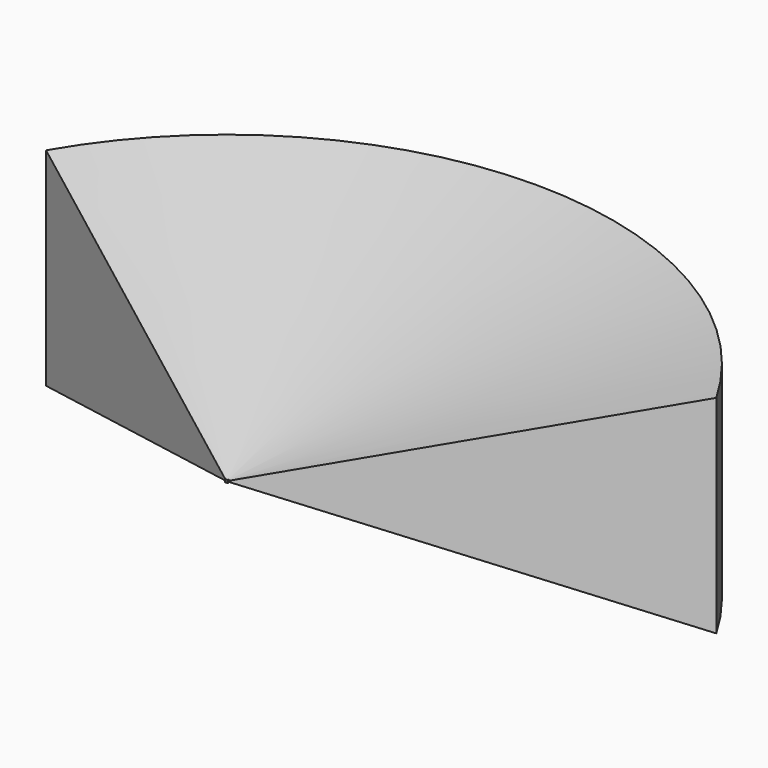
from build123d import *

# Parameters (mm, degrees)
F1_ANGLE_BACK = 60
F1_ANGLE      = 120
F2_W          = 20.6853728741
F2_H          = 21.0079271346
F3_DEPTH      = 12.7


with BuildPart() as f1:
    # F0 (on Right) → F1 (revolve)
    with BuildSketch(Plane.YZ, mode=Mode.PRIVATE) as f1_sk:
        Polygon((3048, 0), (0, 0), (3048, -816.7091385301), align=None)
        Polygon((3048, 816.7091385301), (0, 0), (3048, 0), align=None)
    revolve(f1_sk.sketch.rotate(Axis((0, 0, 1.1242823675), (0, 0, -1)), -F1_ANGLE_BACK), axis=Axis((0, 0, 1.1242823675), (0, 0, -1)), revolution_arc=F1_ANGLE)

    # F2 (on Front) → F3 (join)
    with BuildSketch(Plane.XZ):
        Rectangle(F2_W, F2_H)
    extrude(amount=-F3_DEPTH)


solid = f1.part
